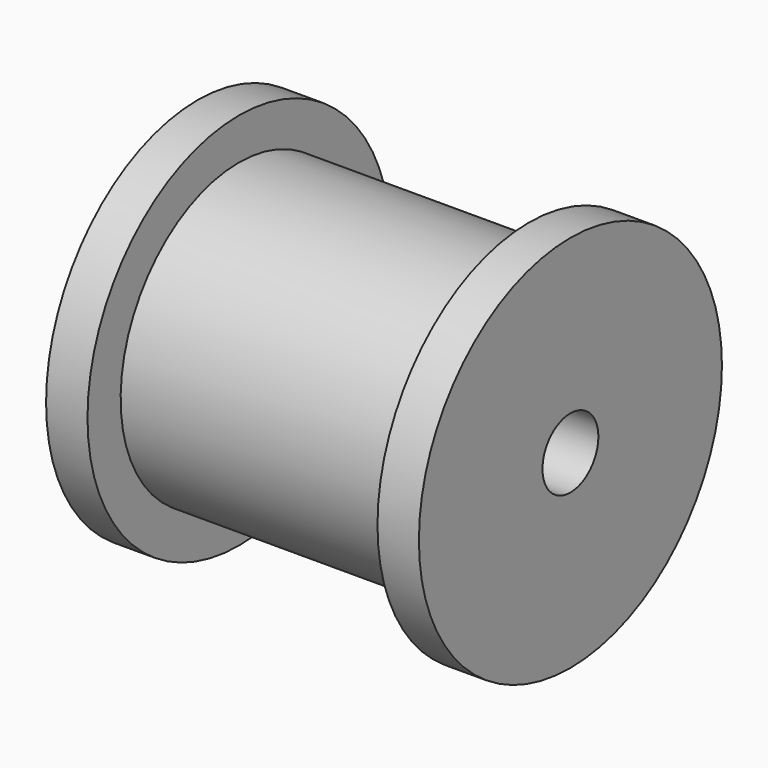
from build123d import *


with BuildPart() as part:
    # Sketch → Revolution (revolve)
    with BuildSketch(Plane.XZ):
        Polygon((31.5, 5.9), (31.5, 32), (24.5, 32), (24.5, 25), (-24.5, 25), (-24.5, 32), (-31.5, 32), (-31.5, 5.9), align=None)
    revolve(axis=Axis((0, 0, 0), (1, 0, 0)))


solid = part.part
